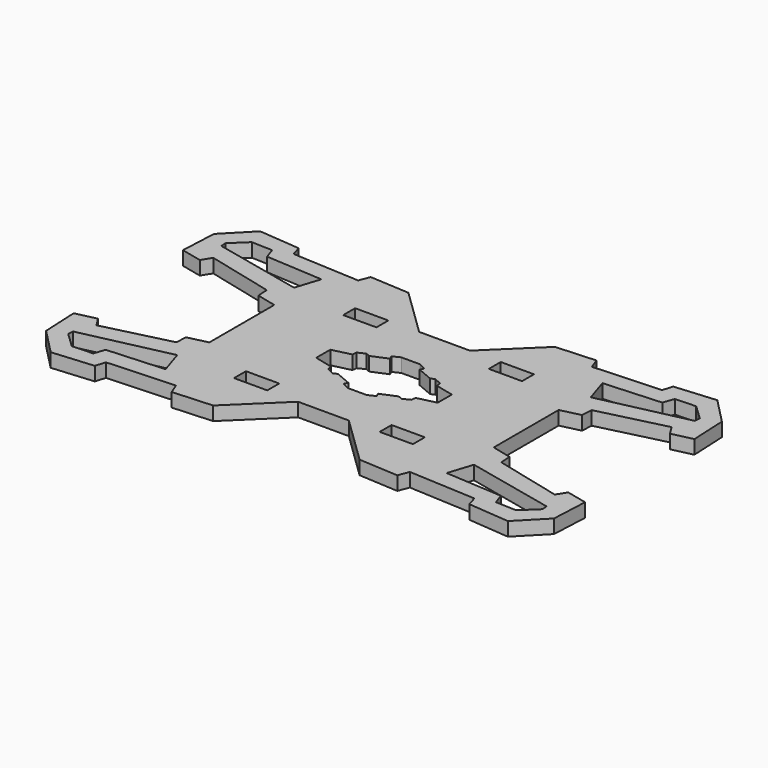
from build123d import *

# Parameters (mm, degrees)
F0_W     = 7.25
F0_H     = 3.25
F1_DEPTH = 3


with BuildPart() as f1:
    # F0 (on Top) → F1 (new body)
    with BuildSketch(Plane.XY):
        Polygon((9.582664, 28.182806), (4.046888, 28.182806), (-1.488889, 28.182806), (-11.920412, 38.29651), (-20.548956, 38.811646), (-21.450445, 36.493532), (-36.131848, 37.266236), (-36.775768, 39.455567), (-45.790665, 40.228274), (-51.328391, 34.561768), (-51.714741, 26.577145), (-47.207296, 25.546871), (-45.919452, 27.607419), (-31.366833, 24.001461), (-31.238047, 21.554559), (-26.953112, 20.524286), (-26.953112, 11.682806), (-26.953112, 2.841327), (-31.238047, 1.811053), (-31.366833, -0.635848), (-45.919452, -4.241806), (-47.207296, -2.181258), (-51.714741, -3.211532), (-51.328391, -11.196155), (-45.790665, -16.862661), (-36.775768, -16.089954), (-36.131848, -13.900623), (-21.450445, -13.127919), (-20.548956, -15.446034), (-11.920412, -14.930897), (-1.488889, -4.817194), (4.046888, -4.817194), (9.582664, -4.817194), (20.014187, -14.930897), (28.642732, -15.446034), (29.54422, -13.127919), (44.225623, -13.900623), (44.869543, -16.089954), (53.88444, -16.862661), (59.422166, -11.196155), (59.808516, -3.211532), (55.301071, -2.181258), (54.013227, -4.241806), (39.460608, -0.635848), (39.331823, 1.811053), (35.046888, 2.841327), (35.046888, 20.524286), (39.331823, 21.554559), (39.460608, 24.001461), (54.013227, 27.607419), (55.301071, 25.546871), (59.808516, 26.577145), (59.422166, 34.561768), (53.88444, 40.228274), (44.869543, 39.455567), (44.225623, 37.266236), (29.54422, 36.493532), (28.642732, 38.811646), (20.014187, 38.29651), align=None)
        Polygon((-47.588665, -8.516893), (-28.300909, -4.230727), (-26.597083, -9.545867), (-39.028991, -10.319404), (-39.857782, -12.695283), (-44.388525, -12.86104), (-47.648445, -9.766877), align=None, mode=Mode.SUBTRACT)
        with Locations((-11.828112, -3.192194)):
            Rectangle(F0_W, F0_H, mode=Mode.SUBTRACT)
        with Locations((19.921888, -3.192194)):
            Rectangle(F0_W, F0_H, mode=Mode.SUBTRACT)
        Polygon((34.690858, -9.545867), (36.394685, -4.230727), (55.68244, -8.516893), (55.74222, -9.766877), (52.482301, -12.86104), (47.951558, -12.695283), (47.122766, -10.319404), align=None, mode=Mode.SUBTRACT)
        Polygon((-9.203112, 9.764191), (-9.203112, 11.682806), (-9.203112, 13.601422), (-5.139121, 14.579791), (-5.063862, 15.55816), (-3.483421, 16.31075), (-2.580312, 15.934454), (0.806347, 17.364377), (0.430051, 18.192228), (2.010493, 18.944819), (4.046888, 18.944819), (6.083283, 18.944819), (7.663724, 18.192228), (7.287428, 17.364377), (10.674088, 15.934454), (11.577197, 16.31075), (13.157638, 15.55816), (13.232897, 14.579791), (17.296888, 13.601422), (17.296888, 11.682806), (17.296888, 9.764191), (13.232897, 8.785822), (13.157638, 7.807453), (11.577197, 7.054863), (10.674088, 7.431159), (7.287428, 6.001236), (7.663724, 5.173385), (6.083283, 4.420794), (4.046888, 4.420794), (2.010493, 4.420794), (0.430051, 5.173385), (0.806347, 6.001236), (-2.580312, 7.431159), (-3.483421, 7.054863), (-5.063862, 7.807453), (-5.139121, 8.785822), align=None, mode=Mode.SUBTRACT)
        Polygon((-26.597083, 32.911479), (-28.300909, 27.59634), (-47.588665, 31.882506), (-47.648445, 33.13249), (-44.388525, 36.226653), (-39.857782, 36.060896), (-39.028991, 33.685017), align=None, mode=Mode.SUBTRACT)
        with Locations((-11.828112, 26.557806)):
            Rectangle(F0_W, F0_H, mode=Mode.SUBTRACT)
        with Locations((19.921888, 26.557806)):
            Rectangle(F0_W, F0_H, mode=Mode.SUBTRACT)
        Polygon((36.394685, 27.59634), (34.690858, 32.911479), (47.122766, 33.685017), (47.951558, 36.060896), (52.482301, 36.226653), (55.74222, 33.13249), (55.68244, 31.882506), align=None, mode=Mode.SUBTRACT)
    extrude(amount=F1_DEPTH)


solid = f1.part
